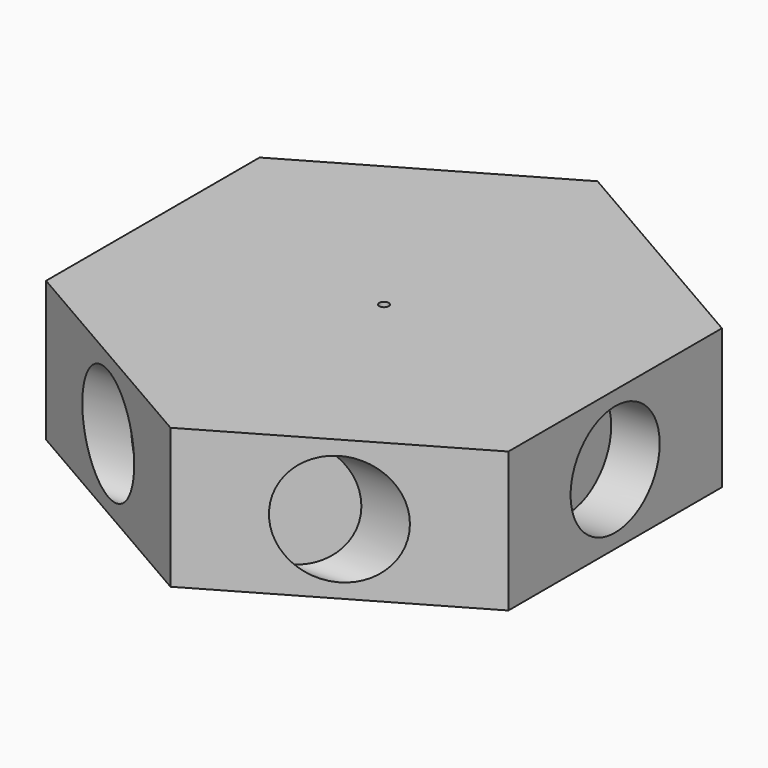
from build123d import *

# Parameters (mm, degrees)
F1_DEPTH  = 15
F2_R      = 5.9679112776
F3_DEPTH  = 5.2
F7_R      = 5.9679112776
F6_R      = 5.9679112776
F5_R      = 5.9679112776
F4_R      = 5.9679112776
F8_R      = 5.9679112776
F9_DEPTH  = 5.2
F10_R     = 5.9679112776
F11_R     = 5.9679112776
F12_DEPTH = 5.2
F13_R     = 0.5008771255
F14_DEPTH = 25


with BuildPart() as f1:
    # F0 (on Top) → F1 (new body)
    with BuildSketch(Plane.XY):
        Polygon((0, -28.6071354192), (24.7745060026, -14.3035677096), (24.7745060026, 14.3035677096), (0, 28.6071354192), (-24.7745060026, 14.3035677096), (-24.7745060026, -14.3035677096), align=None)
    extrude(amount=F1_DEPTH)

    # F2 (on face) → F3 (cut)
    with BuildSketch(Plane(origin=(-12.3872530013, 21.4553515644, 0), x_dir=(-0.8660254038, -0.5, 0), z_dir=(-0.5, 0.8660254038, 0))):
        with Locations((0, 7.6934061944)):
            Circle(F2_R)
    extrude(amount=-F3_DEPTH, mode=Mode.SUBTRACT)

    # F7 (on face) + F6 (on face) + F5 (on face) + F4 (on face) + F8 (on face) → F9 (cut)
    with BuildSketch(Plane.YZ.offset(24.7745060026)):
        with Locations((0, 7.5)):
            Circle(F7_R)
    with BuildSketch(Plane(origin=(12.3872530013, -21.4553515644, 0), x_dir=(0.8660254038, 0.5, 0), z_dir=(0.5, -0.8660254038, 0))):
        with Locations((0, 7.5)):
            Circle(F6_R)
    with BuildSketch(Plane(origin=(-12.3872530013, -21.4553515644, 0), x_dir=(0.8660254038, -0.5, 0), z_dir=(-0.5, -0.8660254038, 0))):
        with Locations((0, 7.5)):
            Circle(F5_R)
    with BuildSketch(Plane(origin=(-24.7745060026, 0, 0), x_dir=(0, -1, 0), z_dir=(-1, 0, 0))):
        with Locations((0, 7.5)):
            Circle(F4_R)
    with BuildSketch(Plane(origin=(12.3872530013, 21.4553515644, 0), x_dir=(-0.8660254038, 0.5, 0), z_dir=(0.5, 0.8660254038, 0))):
        with Locations((0, 7.5)):
            Circle(F8_R)
    extrude(amount=-F9_DEPTH, dir=(1, 0, 0), mode=Mode.SUBTRACT)

    # F10 (on face) + F11 (on face) → F12 (cut)
    with BuildSketch(Plane(origin=(-24.7745060026, 0, 0), x_dir=(0, -1, 0), z_dir=(-1, 0, 0))):
        with Locations((0, 7.5)):
            Circle(F10_R)
    with BuildSketch(Plane(origin=(-12.3872530013, -21.4553515644, 0), x_dir=(0.8660254038, -0.5, 0), z_dir=(-0.5, -0.8660254038, 0))):
        with Locations((0, 7.5)):
            Circle(F11_R)
    extrude(amount=-F12_DEPTH, dir=(-1, 0, 0), mode=Mode.SUBTRACT)

    # F13 (on face) → F14 (cut)
    with BuildSketch(Plane.XY.offset(15)):
        Circle(F13_R)
    extrude(amount=-F14_DEPTH, mode=Mode.SUBTRACT)


solid = f1.part
